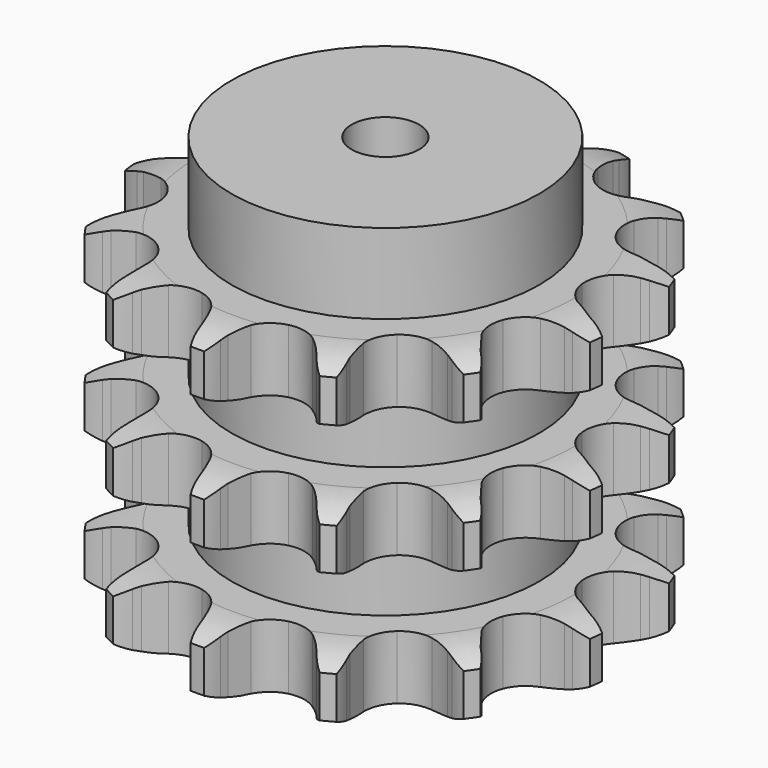
from build123d import *

# Parameters (mm, degrees)
PAD_DEPTH         = 120.3
SKETCH001_R       = 57
PAD001_DEPTH      = 150
SKETCH002_R       = 12.5
POCKET_DEPTH      = 0.001
POCKET_DEPTH_BACK = 150.001


with BuildPart() as part:
    # Sprocket → Pad (new body)
    with BuildSketch(Plane.XY):
        with BuildLine():
            ThreePointArc((-21.75253, 88.253485), (-18.049678, 84.737673), (-15.285411, 80.444554))
            Line((-15.285411, 80.444554), (-14.135613, 78.079063))
            ThreePointArc((-14.135613, 78.079063), (-12.197192, 74.631347), (-9.861611, 71.439282))
            ThreePointArc((-9.861611, 71.439282), (-5.449101, 68.018011), (0, 66.800377))
            ThreePointArc((0, 66.800377), (5.449101, 68.018011), (9.861611, 71.439282))
            ThreePointArc((9.861611, 71.439282), (12.197192, 74.631347), (14.135613, 78.079063))
            Line((14.135613, 78.079063), (15.285411, 80.444554))
            ThreePointArc((15.285411, 80.444554), (18.049678, 84.737673), (21.75253, 88.253485))
            ThreePointArc((21.75253, 88.253485), (23.397364, 83.419587), (23.849889, 78.3336))
            Line((23.849889, 78.3336), (23.768686, 75.704723))
            ThreePointArc((23.768686, 75.704723), (23.88284, 71.751094), (24.467467, 67.839262))
            ThreePointArc((24.467467, 67.839262), (26.784607, 62.759281), (31.043683, 59.148796))
            ThreePointArc((31.043683, 59.148796), (36.434485, 57.694634), (41.931512, 58.673423))
            Line((41.931512, 58.673423), (48.801613, 62.56643))
            ThreePointArc((48.801613, 62.56643), (49.844818, 63.367556), (50.919008, 64.12663))
            ThreePointArc((50.919008, 64.12663), (55.361757, 66.64338), (60.274348, 68.035675))
            ThreePointArc((60.274348, 68.035675), (59.484352, 62.991079), (57.521467, 58.277362))
            Line((57.521467, 58.277362), (56.227866, 55.987344))
            ThreePointArc((56.227866, 55.987344), (54.4916, 52.433529), (53.191343, 48.698084))
            ThreePointArc((53.191343, 48.698084), (52.882284, 43.123157), (54.975632, 37.946939))
            ThreePointArc((54.975632, 37.946939), (59.073168, 34.154112), (64.39541, 32.466191))
            Line((64.39541, 32.466191), (72.287752, 32.720582))
            ThreePointArc((72.287752, 32.720582), (73.583766, 32.945142), (74.887674, 33.118068))
            ThreePointArc((74.887674, 33.118068), (79.991124, 33.281891), (84.98804, 32.231712))
            ThreePointArc((84.98804, 32.231712), (81.944192, 28.132074), (78.01557, 24.870483))
            Line((78.01557, 24.870483), (75.805919, 23.443939))
            ThreePointArc((75.805919, 23.443939), (72.616992, 21.104075), (69.729723, 18.400763))
            ThreePointArc((69.729723, 18.400763), (66.865267, 13.608036), (66.313327, 8.051896))
            ThreePointArc((66.313327, 8.051896), (68.1789, 2.789294), (72.107095, -1.178655))
            Line((72.107095, -1.178655), (79.213638, -4.621157))
            ThreePointArc((79.213638, -4.621157), (80.46556, -5.024606), (81.700476, -5.477444))
            ThreePointArc((81.700476, -5.477444), (86.295489, -7.704078), (90.231995, -10.956148))
            ThreePointArc((90.231995, -10.956148), (85.631605, -13.171651), (80.637246, -14.233924))
            Line((80.637246, -14.233924), (78.017749, -14.47019))
            ThreePointArc((78.017749, -14.47019), (74.106706, -15.060068), (70.293864, -16.111952))
            ThreePointArc((70.293864, -16.111952), (65.530223, -19.024521), (62.459437, -23.68774))
            ThreePointArc((62.459437, -23.68774), (61.665668, -29.214517), (63.299913, -34.553485))
            Line((63.299913, -34.553485), (67.992634, -40.904245))
            ThreePointArc((67.992634, -40.904245), (68.913664, -41.843278), (69.796683, -42.81814))
            ThreePointArc((69.796683, -42.81814), (72.830597, -46.925135), (74.804888, -51.634086))
            ThreePointArc((74.804888, -51.634086), (69.701849, -51.457909), (64.785901, -50.077511))
            Line((64.785901, -50.077511), (62.356654, -49.069373))
            ThreePointArc((62.356654, -49.069373), (58.619466, -47.774131), (54.754528, -46.933613))
            ThreePointArc((54.754528, -46.933613), (49.182995, -47.29879), (44.296844, -50.0008))
            ThreePointArc((44.296844, -50.0008), (41.025574, -54.525635), (39.991485, -60.012528))
            Line((39.991485, -60.012528), (41.195337, -67.816663))
            ThreePointArc((41.195337, -67.816663), (41.574478, -69.076159), (41.903312, -70.349716))
            ThreePointArc((41.903312, -70.349716), (42.681093, -75.39621), (42.240883, -80.483278))
            ThreePointArc((42.240883, -80.483278), (37.80424, -77.95578), (34.092887, -74.448943))
            Line((34.092887, -74.448943), (32.4104, -72.427353))
            ThreePointArc((32.4104, -72.427353), (29.703214, -69.543717), (26.67159, -67.003348))
            ThreePointArc((26.67159, -67.003348), (21.568536, -64.737476), (15.986377, -64.859279))
            ThreePointArc((15.986377, -64.859279), (10.987016, -67.345587), (7.521489, -71.723424))
            Line((7.521489, -71.723424), (4.960685, -79.193101))
            ThreePointArc((4.960685, -79.193101), (4.71108, -80.484525), (4.410397, -81.76502))
            ThreePointArc((4.410397, -81.76502), (2.753865, -86.594921), (0, -90.89472))
            ThreePointArc((0, -90.89472), (-2.753865, -86.594921), (-4.410397, -81.76502))
            Line((-4.410397, -81.76502), (-4.960685, -79.193101))
            ThreePointArc((-4.960685, -79.193101), (-6.017687, -75.381675), (-7.521489, -71.723424))
            ThreePointArc((-7.521489, -71.723424), (-10.987016, -67.345587), (-15.986377, -64.859279))
            ThreePointArc((-15.986377, -64.859279), (-21.568536, -64.737476), (-26.67159, -67.003348))
            Line((-26.67159, -67.003348), (-32.4104, -72.427353))
            ThreePointArc((-32.4104, -72.427353), (-33.231569, -73.454855), (-34.092887, -74.448943))
            ThreePointArc((-34.092887, -74.448943), (-37.80424, -77.95578), (-42.240883, -80.483278))
            ThreePointArc((-42.240883, -80.483278), (-42.681093, -75.39621), (-41.903312, -70.349716))
            Line((-41.903312, -70.349716), (-41.195337, -67.816663))
            ThreePointArc((-41.195337, -67.816663), (-40.360008, -63.9506), (-39.991485, -60.012528))
            ThreePointArc((-39.991485, -60.012528), (-41.025574, -54.525635), (-44.296844, -50.0008))
            ThreePointArc((-44.296844, -50.0008), (-49.182995, -47.29879), (-54.754528, -46.933613))
            Line((-54.754528, -46.933613), (-62.356654, -49.069373))
            ThreePointArc((-62.356654, -49.069373), (-63.561267, -49.597564), (-64.785901, -50.077511))
            ThreePointArc((-64.785901, -50.077511), (-69.701849, -51.457909), (-74.804888, -51.634086))
            ThreePointArc((-74.804888, -51.634086), (-72.830597, -46.925135), (-69.796683, -42.81814))
            Line((-69.796683, -42.81814), (-67.992634, -40.904245))
            ThreePointArc((-67.992634, -40.904245), (-65.456338, -37.869213), (-63.299913, -34.553485))
            ThreePointArc((-63.299913, -34.553485), (-61.665668, -29.214517), (-62.459437, -23.68774))
            ThreePointArc((-62.459437, -23.68774), (-65.530223, -19.024521), (-70.293864, -16.111952))
            Line((-70.293864, -16.111952), (-78.017749, -14.47019))
            ThreePointArc((-78.017749, -14.47019), (-79.329844, -14.378068), (-80.637246, -14.233924))
            ThreePointArc((-80.637246, -14.233924), (-85.631605, -13.171651), (-90.231995, -10.956148))
            ThreePointArc((-90.231995, -10.956148), (-86.295489, -7.704078), (-81.700476, -5.477444))
            Line((-81.700476, -5.477444), (-79.213638, -4.621157))
            ThreePointArc((-79.213638, -4.621157), (-75.55741, -3.112445), (-72.107095, -1.178655))
            ThreePointArc((-72.107095, -1.178655), (-68.1789, 2.789294), (-66.313327, 8.051896))
            ThreePointArc((-66.313327, 8.051896), (-66.865267, 13.608036), (-69.729723, 18.400763))
            Line((-69.729723, 18.400763), (-75.805919, 23.443939))
            ThreePointArc((-75.805919, 23.443939), (-76.92491, 24.135269), (-78.01557, 24.870483))
            ThreePointArc((-78.01557, 24.870483), (-81.944192, 28.132074), (-84.98804, 32.231712))
            ThreePointArc((-84.98804, 32.231712), (-79.991124, 33.281891), (-74.887674, 33.118068))
            Line((-74.887674, 33.118068), (-72.287752, 32.720582))
            ThreePointArc((-72.287752, 32.720582), (-68.349189, 32.357345), (-64.39541, 32.466191))
            ThreePointArc((-64.39541, 32.466191), (-59.073168, 34.154112), (-54.975632, 37.946939))
            ThreePointArc((-54.975632, 37.946939), (-52.882284, 43.123157), (-53.191343, 48.698084))
            Line((-53.191343, 48.698084), (-56.227866, 55.987344))
            ThreePointArc((-56.227866, 55.987344), (-56.897406, 57.119508), (-57.521467, 58.277362))
            ThreePointArc((-57.521467, 58.277362), (-59.484352, 62.991079), (-60.274348, 68.035675))
            ThreePointArc((-60.274348, 68.035675), (-55.361757, 66.64338), (-50.919008, 64.12663))
            Line((-50.919008, 64.12663), (-48.801613, 62.56643))
            ThreePointArc((-48.801613, 62.56643), (-45.482993, 60.414459), (-41.931512, 58.673423))
            ThreePointArc((-41.931512, 58.673423), (-36.434485, 57.694634), (-31.043683, 59.148796))
            ThreePointArc((-31.043683, 59.148796), (-26.784607, 62.759281), (-24.467467, 67.839262))
            Line((-24.467467, 67.839262), (-23.768686, 75.704723))
            ThreePointArc((-23.768686, 75.704723), (-23.835392, 77.018355), (-23.849889, 78.3336))
            ThreePointArc((-23.849889, 78.3336), (-23.397364, 83.419587), (-21.75253, 88.253485))
        make_face()
    extrude(amount=PAD_DEPTH)

    # Sketch → Groove (revolve, cut)
    with BuildSketch(Plane.XZ):
        with BuildLine():
            ThreePointArc((70.129437, 0), (78.847235, 1.013516), (87.1, 4))
            Line((87.1, 4), (87.1, 19.6))
            ThreePointArc((87.1, 19.6), (78.847235, 22.586484), (70.129437, 23.6))
            Line((57, 23.6), (70.129437, 23.6))
            Line((57, 23.6), (57, 48.35))
            Line((57, 48.35), (70.129437, 48.35))
            ThreePointArc((70.129437, 48.35), (78.847235, 49.363516), (87.1, 52.35))
            Line((87.1, 67.95), (87.1, 52.35))
            ThreePointArc((87.1, 67.95), (78.847235, 70.936484), (70.129437, 71.95))
            Line((57, 71.95), (70.129437, 71.95))
            Line((57, 96.7), (57, 71.95))
            Line((70.129437, 96.7), (57, 96.7))
            ThreePointArc((70.129437, 96.7), (78.847235, 97.713516), (87.1, 100.7))
            Line((87.1, 100.7), (87.1, 116.3))
            ThreePointArc((87.1, 116.3), (78.847235, 119.286484), (70.129437, 120.3))
            Line((70.129437, 120.3), (97.1, 120.3))
            Line((97.1, 120.3), (97.1, 0))
            Line((70.129437, 0), (97.1, 0))
        make_face()
    revolve(axis=Axis((0, 0, 0), (0, 0, 1)), mode=Mode.SUBTRACT)

    # Sketch001 → Pad001 (join)
    with BuildSketch(Plane.XY):
        Circle(SKETCH001_R)
    extrude(amount=PAD001_DEPTH)

    # Sketch002 → Pocket (cut, two sides)
    with BuildSketch(Plane.XY) as pocket_sk:
        Circle(SKETCH002_R)
    extrude(amount=-POCKET_DEPTH, mode=Mode.SUBTRACT)
    extrude(pocket_sk.sketch, amount=POCKET_DEPTH_BACK, mode=Mode.SUBTRACT)


solid = part.part
